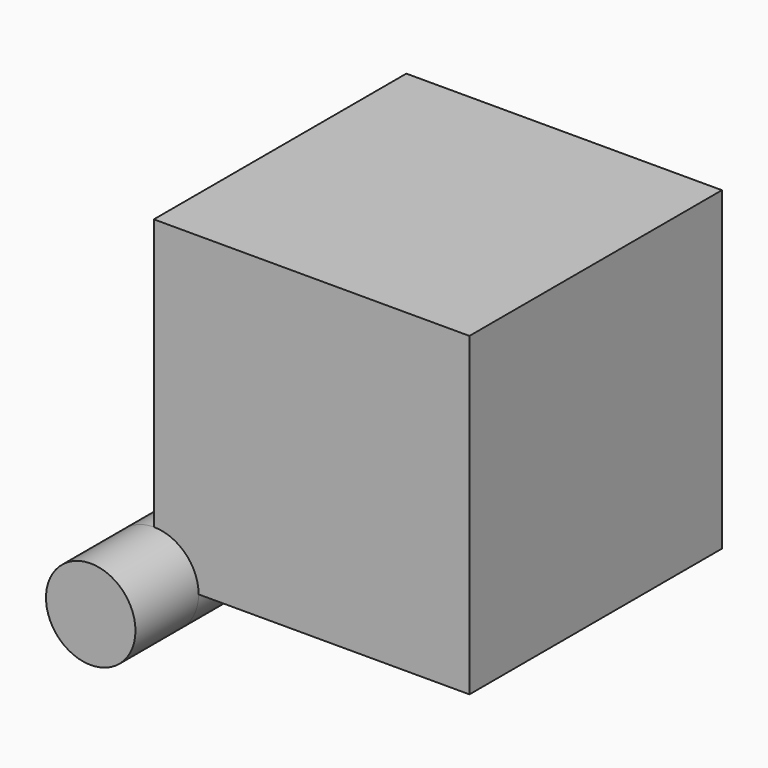
from build123d import *

# Parameters (mm, degrees)
F0_W          = 101.6
F0_H          = 101.6
F1_DEPTH      = 101.6
F3_R          = 14.402071
F4_DEPTH      = 25.4
F4_DEPTH_BACK = 127


with BuildPart() as f1:
    # F0 (on Front) → F1 (new body)
    with BuildSketch(Plane.XZ):
        with Locations((50.8, 50.8)):
            Rectangle(F0_W, F0_H)
    extrude(amount=F1_DEPTH)

    # F3 (on offset) → F4 (join, two sides)
    with BuildSketch(Plane.XZ.offset(101.6)) as f4_sk:
        Circle(F3_R)
    extrude(amount=F4_DEPTH)
    extrude(f4_sk.sketch, amount=-F4_DEPTH_BACK)


solid = f1.part
